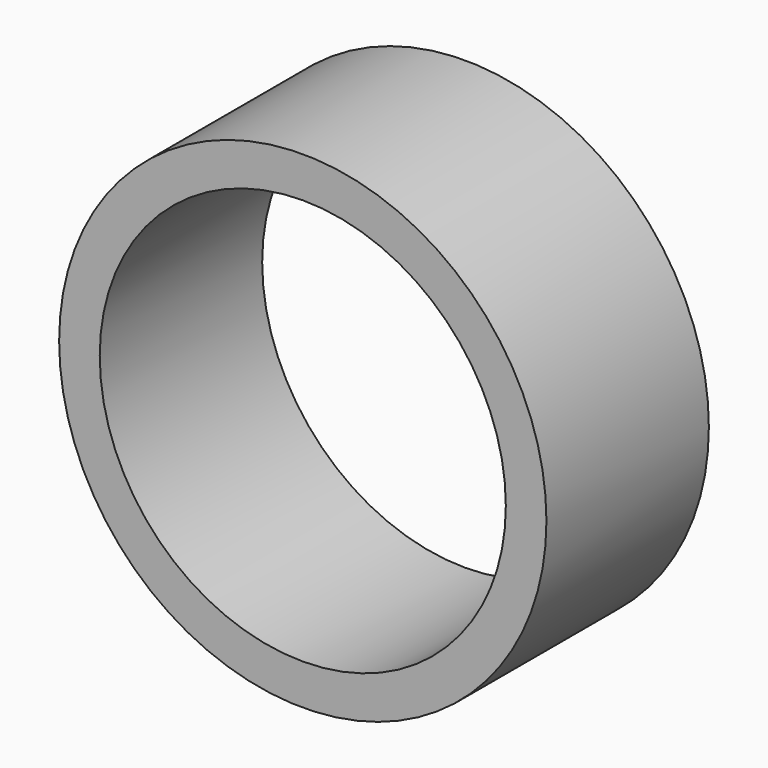
from build123d import *

# Parameters (mm, degrees)
SKETCH_R   = 60
SKETCH_R_2 = 50
PAD_DEPTH  = 50


with BuildPart() as part:
    # Sketch → Pad (new body)
    with BuildSketch(Plane.XZ):
        Circle(SKETCH_R)
        Circle(SKETCH_R_2, mode=Mode.SUBTRACT)
    extrude(amount=PAD_DEPTH)


solid = part.part
